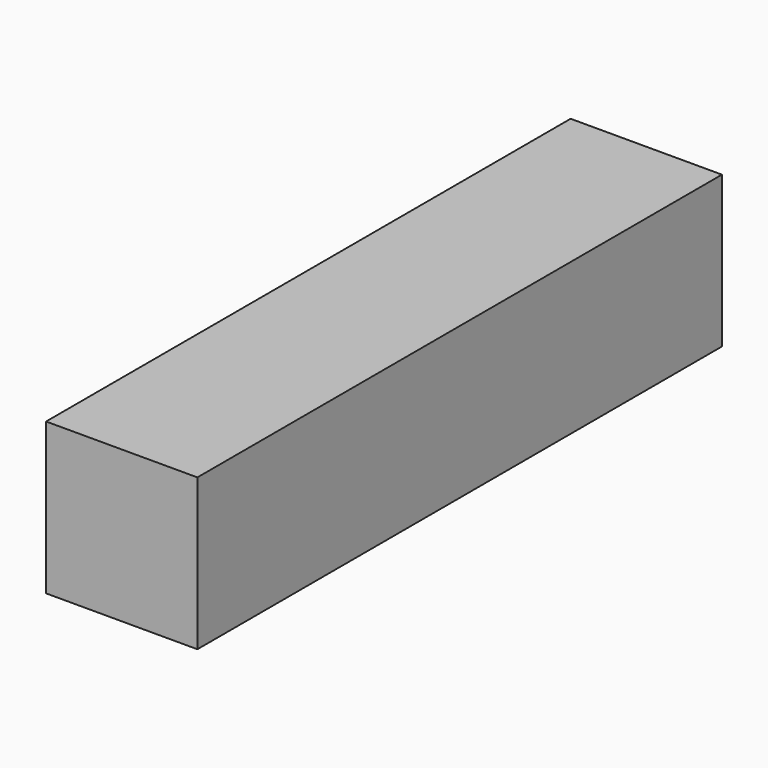
from build123d import *

# Parameters (mm, degrees)
F0_W     = 76.2
F0_H     = 76.2
F1_DEPTH = 127
F2_DEPTH = 76.2
F3_DEPTH = 127


with BuildPart() as f1:
    # F0 (on Front) → F1 (new body)
    with BuildSketch(Plane.XZ):
        with Locations((38.1, 38.1)):
            Rectangle(F0_W, F0_H)
    extrude(amount=F1_DEPTH)

    # F2 (add): a face of the model
    f2_faces = [f1.faces().sort_by_distance(p)[0] for p in [
        (38.1, -127, 38.1),
    ]]
    extrude(f2_faces, amount=F2_DEPTH)

    # F3 (add): a face of the model
    f3_faces = [f1.faces().sort_by_distance(p)[0] for p in [
        (38.1, 0, 38.1),
    ]]
    extrude(f3_faces, amount=F3_DEPTH)


solid = f1.part
